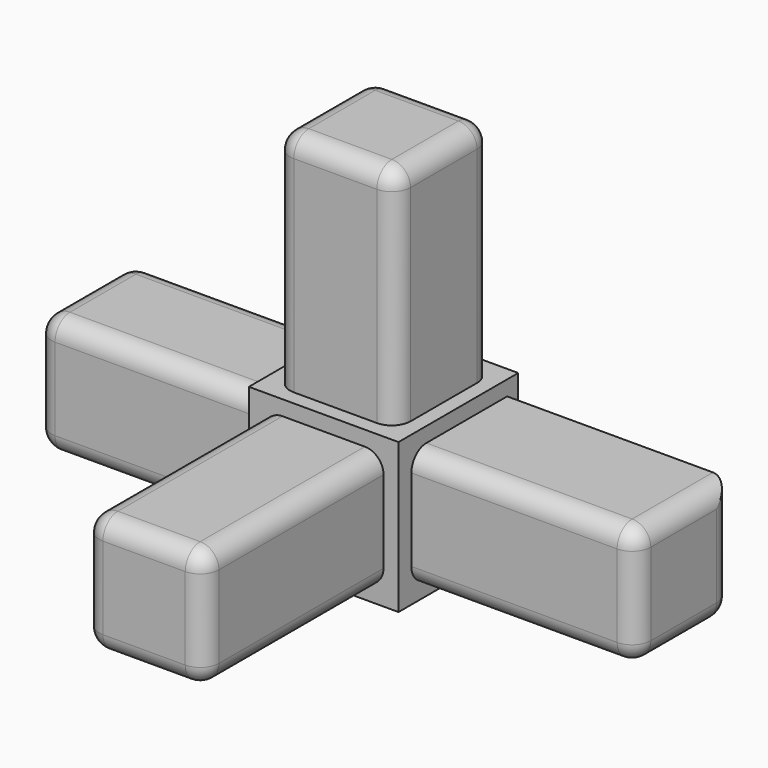
from build123d import *

# Parameters (mm, degrees)
F0_W     = 16
F0_H     = 16
F1_DEPTH = 50
F0_W_2   = 20
F0_H_2   = 20
F2_DEPTH = 20
F3_W     = 16
F3_H     = 16
F4_DEPTH = 40
F5_W     = 16
F5_H     = 16
F6_DEPTH = 40
F7_W     = 16.1
F7_H     = 16.1
F8_DEPTH = 40
F9_R     = 2.5


with BuildPart() as f1:
    # F0 (on Front) → F1 (new body)
    with BuildSketch(Plane.XZ):
        Rectangle(F0_W, F0_H)
    extrude(amount=F1_DEPTH)

    # F0 (on Front) → F2 (join)
    with BuildSketch(Plane.XZ):
        Rectangle(F0_W_2, F0_H_2)
        Rectangle(F0_W, F0_H, mode=Mode.SUBTRACT)
    extrude(amount=F2_DEPTH)

    # F3 (on Right) → F4 (join)
    with BuildSketch(Plane.YZ):
        with Locations((-9.85, 0)):
            Rectangle(F3_W, F3_H)
    extrude(amount=F4_DEPTH)

    # F5 (on Right) → F6 (join)
    with BuildSketch(Plane.YZ):
        with Locations((-10, 0)):
            Rectangle(F5_W, F5_H)
    extrude(amount=-F6_DEPTH)

    # F7 (on Top) → F8 (join)
    with BuildSketch(Plane.XY):
        with Locations((0, -10)):
            Rectangle(F7_W, F7_H)
    extrude(amount=F8_DEPTH)

    # F9
    f9_edges = [f1.edges().sort_by_distance(p)[0] for p in [
        (0, 0, -10),
        (-25, -2, -8),
        (-25, -18, -8),
        (-25, -2, 8),
        (-25, -18, 8),
        (-40, -10, -8),
        (-40, -2, 0),
        (-40, -10, 8),
        (-40, -18, 0),
        (-8.05, -18.05, 25),
        (0, -18.05, 40),
        (-8.05, -10, 40),
        (8.05, -10, 40),
        (0, -1.95, 40),
        (-8.05, -1.95, 25),
        (8.05, -1.95, 25),
        (8.05, -18.05, 25),
        (-8, -35, 8),
        (0, -50, 8),
        (8, -35, 8),
        (-8, -50, 0),
        (0, -50, -8),
        (8, -50, 0),
        (25, -17.85, 8),
        (25, -17.85, -8),
        (40, -9.85, -8),
        (40, -1.85, 0),
        (40, -9.85, 8),
        (40, -17.85, 0),
        (8, -35, -8),
        (-8, -35, -8),
        (25, -1.85, -8),
    ]]
    fillet(f9_edges, radius=F9_R)


solid = f1.part
